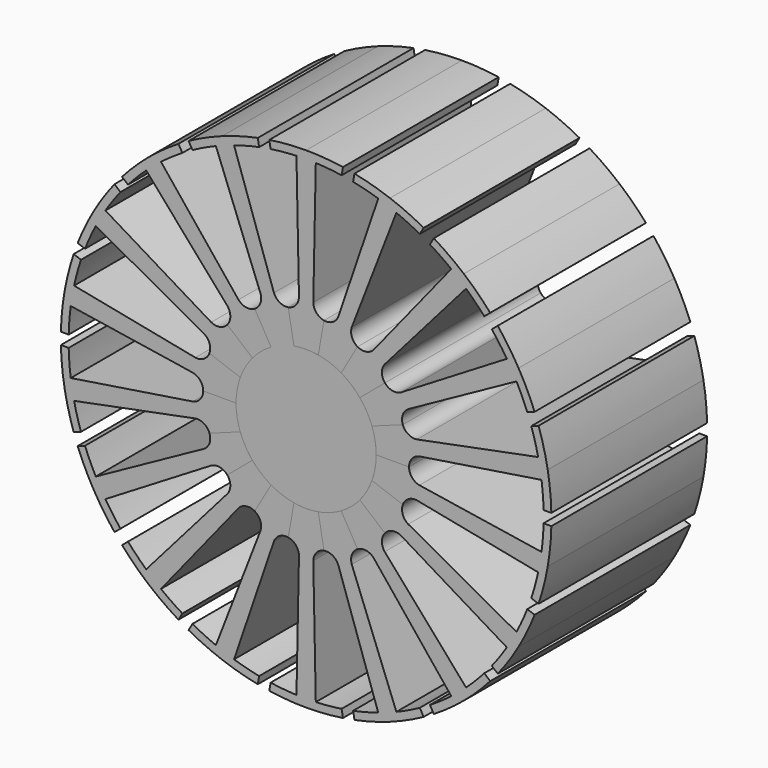
from build123d import *

# Parameters (mm, degrees)
F1_DEPTH = 50
F2_COUNT = 18


with BuildPart() as f1:
    # F0 (on Front) → F1 (new body)
    with BuildSketch(Plane.XZ):
        with BuildLine():
            ThreePointArc((-3.125667198, 17.7265395542), (-11.5701769744, -13.7887999761), (18, 0))
            ThreePointArc((18, 0), (13.7887999761, 11.5701769744), (3.125667198, 17.7265395542))
            Line((3.125667198, 17.7265395542), (0, 0))
            Line((0, 0), (-3.125667198, 17.7265395542))
        make_face()
        with BuildLine():
            Line((0, 0), (3.125667198, 17.7265395542))
            ThreePointArc((3.125667198, 17.7265395542), (1.5688033695, 17.9315045657), (0, 18))
            Line((0, 18), (0, 0))
        make_face()
        with BuildLine():
            ThreePointArc((0, 18), (1.5688033695, 17.9315045657), (3.125667198, 17.7265395542))
            Line((3.125667198, 17.7265395542), (4.588183037, 26.020879043))
            ThreePointArc((4.588183037, 26.020879043), (2.645405919, 27.1254315979), (1.8394331553, 29.209856502))
            Line((1.8394331553, 29.209856502), (2.480008953, 60.9501517167))
            ThreePointArc((2.480008953, 60.9501517167), (5.8047794653, 60.7237677854), (9.1122259083, 60.3161568545))
            Line((9.1122259083, 60.3161568545), (9.4595222636, 62.2857723605))
            ThreePointArc((9.4595222636, 62.2857723605), (4.7432236553, 62.8211893341), (0, 63))
            Line((0, 63), (0, 18))
        make_face()
        with BuildLine():
            Line((-4.588183037, 26.020879043), (-3.125667198, 17.7265395542))
            ThreePointArc((-3.125667198, 17.7265395542), (-1.5688033695, 17.9315045657), (0, 18))
            Line((0, 18), (0, 63))
            ThreePointArc((0, 63), (-4.7432236553, 62.8211893341), (-9.4595222636, 62.2857723605))
            Line((-9.4595222636, 62.2857723605), (-9.1122259083, 60.3161568545))
            ThreePointArc((-9.1122259083, 60.3161568545), (-5.8047794653, 60.7237677854), (-2.480008953, 60.9501517167))
            Line((-2.480008953, 60.9501517167), (-1.8394331553, 29.209856502))
            ThreePointArc((-1.8394331553, 29.209856502), (-2.645405919, 27.1254315979), (-4.588183037, 26.020879043))
        make_face()
        with BuildLine():
            ThreePointArc((0, 18), (-1.5688033695, 17.9315045657), (-3.125667198, 17.7265395542))
            Line((-3.125667198, 17.7265395542), (0, 0))
            Line((0, 0), (0, 18))
        make_face()
    extrude(amount=F1_DEPTH)


with BuildPart() as f2_1:
    # F2: instance of F1
    add(f1.part.rotate(Axis((0, 0, 0), (0, 1, 0)), 1 * 360 / F2_COUNT))


with BuildPart() as f2_2:
    # F2: instance of F1
    add(f1.part.rotate(Axis((0, 0, 0), (0, 1, 0)), 2 * 360 / F2_COUNT))


with BuildPart() as f2_3:
    # F2: instance of F1
    add(f1.part.rotate(Axis((0, 0, 0), (0, 1, 0)), 3 * 360 / F2_COUNT))


with BuildPart() as f2_4:
    # F2: instance of F1
    add(f1.part.rotate(Axis((0, 0, 0), (0, 1, 0)), 4 * 360 / F2_COUNT))


with BuildPart() as f2_5:
    # F2: instance of F1
    add(f1.part.rotate(Axis((0, 0, 0), (0, 1, 0)), 5 * 360 / F2_COUNT))


with BuildPart() as f2_6:
    # F2: instance of F1
    add(f1.part.rotate(Axis((0, 0, 0), (0, 1, 0)), 6 * 360 / F2_COUNT))


with BuildPart() as f2_7:
    # F2: instance of F1
    add(f1.part.rotate(Axis((0, 0, 0), (0, 1, 0)), 7 * 360 / F2_COUNT))


with BuildPart() as f2_8:
    # F2: instance of F1
    add(f1.part.rotate(Axis((0, 0, 0), (0, 1, 0)), 8 * 360 / F2_COUNT))


with BuildPart() as f2_9:
    # F2: instance of F1
    add(f1.part.rotate(Axis((0, 0, 0), (0, 1, 0)), 9 * 360 / F2_COUNT))


with BuildPart() as f2_10:
    # F2: instance of F1
    add(f1.part.rotate(Axis((0, 0, 0), (0, 1, 0)), 10 * 360 / F2_COUNT))


with BuildPart() as f2_11:
    # F2: instance of F1
    add(f1.part.rotate(Axis((0, 0, 0), (0, 1, 0)), 11 * 360 / F2_COUNT))


with BuildPart() as f2_12:
    # F2: instance of F1
    add(f1.part.rotate(Axis((0, 0, 0), (0, 1, 0)), 12 * 360 / F2_COUNT))


with BuildPart() as f2_13:
    # F2: instance of F1
    add(f1.part.rotate(Axis((0, 0, 0), (0, 1, 0)), 13 * 360 / F2_COUNT))


with BuildPart() as f2_14:
    # F2: instance of F1
    add(f1.part.rotate(Axis((0, 0, 0), (0, 1, 0)), 14 * 360 / F2_COUNT))


with BuildPart() as f2_15:
    # F2: instance of F1
    add(f1.part.rotate(Axis((0, 0, 0), (0, 1, 0)), 15 * 360 / F2_COUNT))


with BuildPart() as f2_16:
    # F2: instance of F1
    add(f1.part.rotate(Axis((0, 0, 0), (0, 1, 0)), 16 * 360 / F2_COUNT))


with BuildPart() as f2_17:
    # F2: instance of F1
    add(f1.part.rotate(Axis((0, 0, 0), (0, 1, 0)), 17 * 360 / F2_COUNT))


solid = Compound([f1.part, f2_1.part, f2_2.part, f2_3.part, f2_4.part, f2_5.part, f2_6.part, f2_7.part, f2_8.part, f2_9.part, f2_10.part, f2_11.part, f2_12.part, f2_13.part, f2_14.part, f2_15.part, f2_16.part, f2_17.part])
